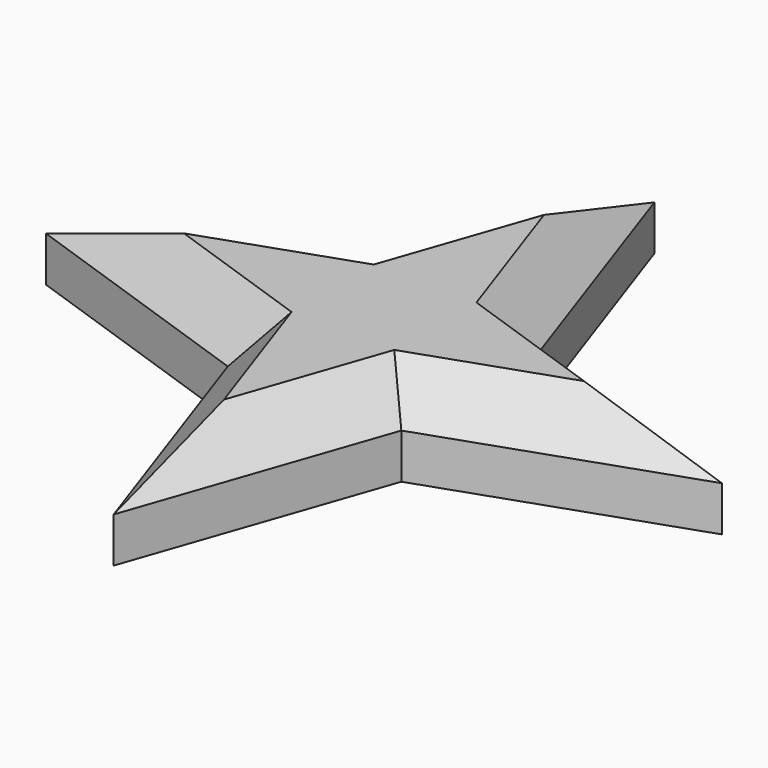
from build123d import *

# Parameters (mm, degrees)
F1_DEPTH = 4
F2_SIZE  = 2


with BuildPart() as f1:
    # F0 (on Top) → F1 (new body)
    with BuildSketch(Plane.XY):
        Polygon((0, 0), (-3.852255, 3.852255), (-15, 0), (-3.852255, -3.852255), align=None)
        Polygon((3.852255, 3.852255), (0, 15), (-3.852255, 3.852255), (0, 0), align=None)
        Polygon((15, 0), (3.852255, 3.852255), (0, 0), (3.852255, -3.852255), align=None)
        Polygon((3.852255, -3.852255), (0, 0), (-3.852255, -3.852255), (0, -15), align=None)
    extrude(amount=F1_DEPTH)

    # F2
    f2_edges = [f1.edges().sort_by_distance(p)[0] for p in [
        (-9.426127, -1.926127, 4),
        (-1.926127, -9.426127, 4),
        (1.926127, -9.426127, 4),
        (9.426127, -1.926127, 4),
        (9.426127, 1.926127, 4),
        (1.926127, 9.426127, 4),
        (-1.926127, 9.426127, 4),
        (-9.426127, 1.926127, 4),
    ]]
    chamfer(f2_edges, length=F2_SIZE)


solid = f1.part
